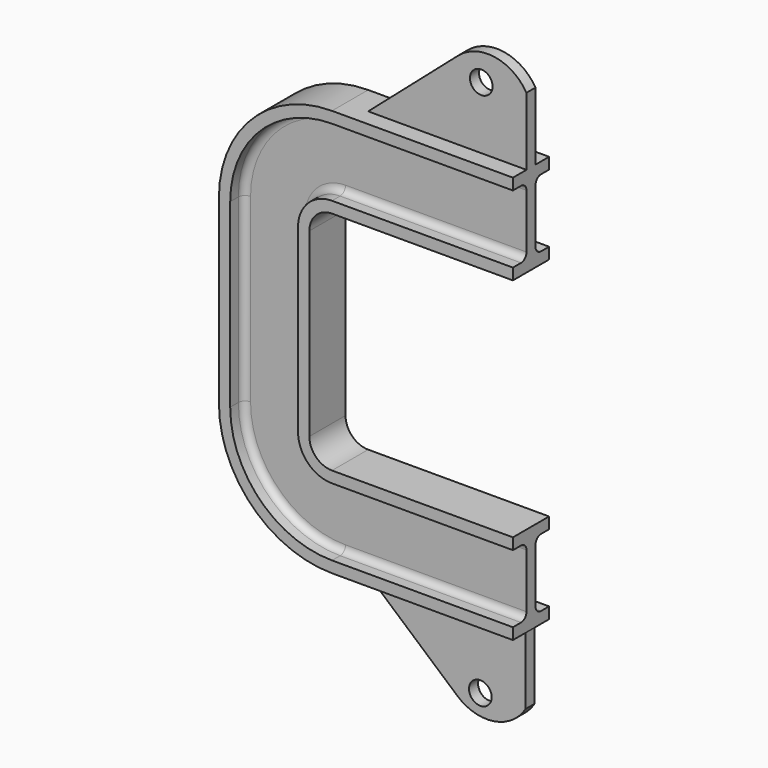
from build123d import *

# Parameters (mm, degrees)
F3_R     = 5
F4_DEPTH = 2.5
F5_DEPTH = 2.5


with BuildPart() as f2:
    # F2: sweep along a path in F1
    with BuildLine(Plane.XZ) as f2_path:
        Line((0, 0), (-80, 0))
        ThreePointArc((-80, 0), (-101.2132034356, -8.7867965644), (-110, -30))
        Line((-110, -30), (-110, -110))
        ThreePointArc((-110, -110), (-101.2132034356, -131.2132034356), (-80, -140))
        Line((-80, -140), (0, -140))
    # F0 (on Right) → F2 (sweep)
    with BuildSketch(Plane.YZ):
        with BuildLine():
            Line((10, 20), (0, 20))
            Line((0, 20), (-10, 20))
            Line((-10, 20), (-10, 15))
            Line((-10, 15), (-5.5, 15))
            ThreePointArc((-5.5, 15), (-3.3786796564, 14.1213203436), (-2.5, 12))
            Line((-2.5, 12), (-2.5, 0))
            Line((-2.5, 0), (-2.5, -12))
            ThreePointArc((-2.5, -12), (-3.3786796564, -14.1213203436), (-5.5, -15))
            Line((-5.5, -15), (-10, -15))
            Line((-10, -15), (-10, -20))
            Line((-10, -20), (0, -20))
            Line((0, -20), (10, -20))
            Line((10, -20), (10, -15))
            Line((10, -15), (5.5, -15))
            ThreePointArc((5.5, -15), (3.3786796564, -14.1213203436), (2.5, -12))
            Line((2.5, -12), (2.5, 0))
            Line((2.5, 0), (2.5, 12))
            ThreePointArc((2.5, 12), (3.3786796564, 14.1213203436), (5.5, 15))
            Line((5.5, 15), (10, 15))
            Line((10, 15), (10, 20))
        make_face()
    sweep(path=f2_path.line)

    # F3 (on Front) → F4 (join, symmetric)
    with BuildSketch(Plane.XZ):
        with BuildLine():
            Line((-70, 20), (0, 20))
            Line((0, 20), (0, 50))
            ThreePointArc((0, 50), (-13.9930064723, 59.3289627376), (-30.1564242691, 54.6837823298))
            Line((-30.1564242691, 54.6837823298), (-70, 20))
        make_face()
        with Locations((-20, 47.5595779717)):
            Circle(F3_R, mode=Mode.SUBTRACT)
    extrude(amount=F4_DEPTH, both=True)

    # F3 (on Front) → F5 (join, symmetric)
    with BuildSketch(Plane.XZ):
        with BuildLine():
            Line((-70, 20), (0, 20))
            Line((0, 20), (0, 50))
            ThreePointArc((0, 50), (-13.9930064723, 59.3289627376), (-30.1564242691, 54.6837823298))
            Line((-30.1564242691, 54.6837823298), (-70, 20))
        make_face()
        with Locations((-20, 47.5595779717)):
            Circle(F3_R, mode=Mode.SUBTRACT)
        with BuildLine():
            Line((-0.4077370701, -160), (-70.4077370701, -160))
            Line((-70.4077370701, -160), (-30.6394707567, -194.618225577))
            ThreePointArc((-30.6394707567, -194.618225577), (-14.4500845673, -199.3365631453), (-0.4077370701, -190))
            Line((-0.4077370701, -190), (-0.4077370701, -160))
        make_face()
        with Locations((-20.4077370701, -190.2831075506)):
            Circle(F3_R, mode=Mode.SUBTRACT)
    extrude(amount=F5_DEPTH, both=True)


solid = f2.part
